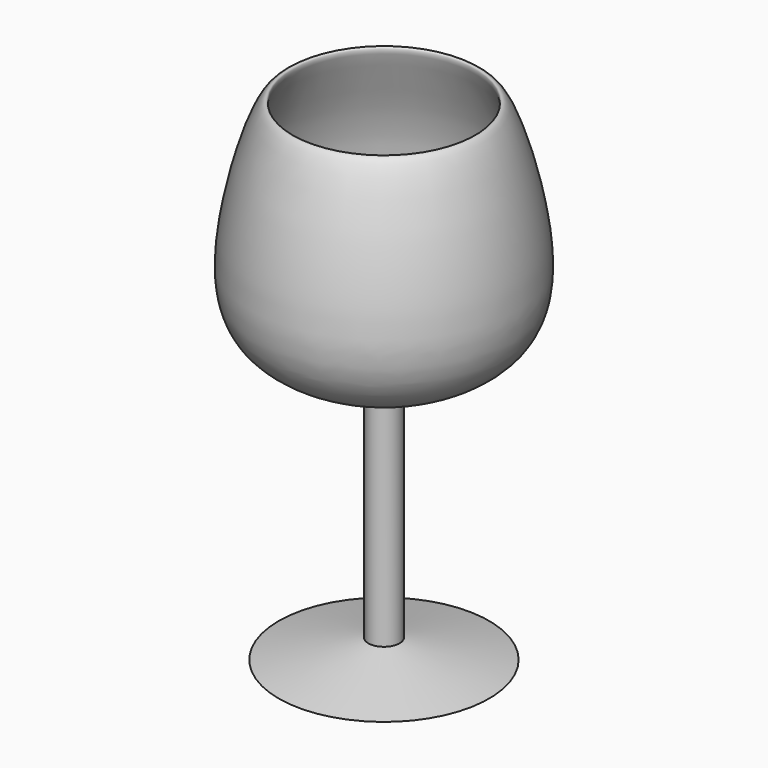
from build123d import *


with BuildPart() as f1:
    # F0 (on Front) → F1 (revolve)
    with BuildSketch(Plane.XZ):
        with BuildLine():
            Line((-27.8861746192, -76.0844945908), (0, -76.0844945908))
            Line((0, -76.0844945908), (0, -9.2953946441))
            add(Edge.make_bspline(
                [(-4.1312868707, -12.3938582838), (-14.3412107187, -9.2159127478), (-33.9963273175, -3.0980522245), (-36.817328708, 22.6433251947), (-27.4470390362, 53.9157688915), (-22.6993565696, 54.6983198115), (-29.0354618924, 41.5600936187), (-33.395430974, 25.6060723353), (-33.1756345542, 11.5540898443), (-31.2216818751, 5.471988612), (-27.5945636705, -0.5528453525), (-18.9307138295, -5.9060032459), (-10.7543821865, -8.6821772648), (-3.7067921163, -9.0840324936), (0, -9.2953946441)],
                knots=[0, 0, 0, 0, 0.1247212425, 0.2401007687, 0.3697122537, 0.3974780809, 0.4770206473, 0.5782623172, 0.6636569368, 0.721218244, 0.7814719063, 0.8549112982, 0.9236882891, 1, 1, 1, 1], degree=3))
            Line((-4.1312868707, -12.3938582838), (-4.1312868707, -70.9203928709))
            Line((-4.1312868707, -70.9203928709), (-27.8861746192, -76.0844945908))
        make_face()
    revolve(axis=Axis((0, 0, -42.6899446175), (0, 0, 1)))


solid = f1.part
